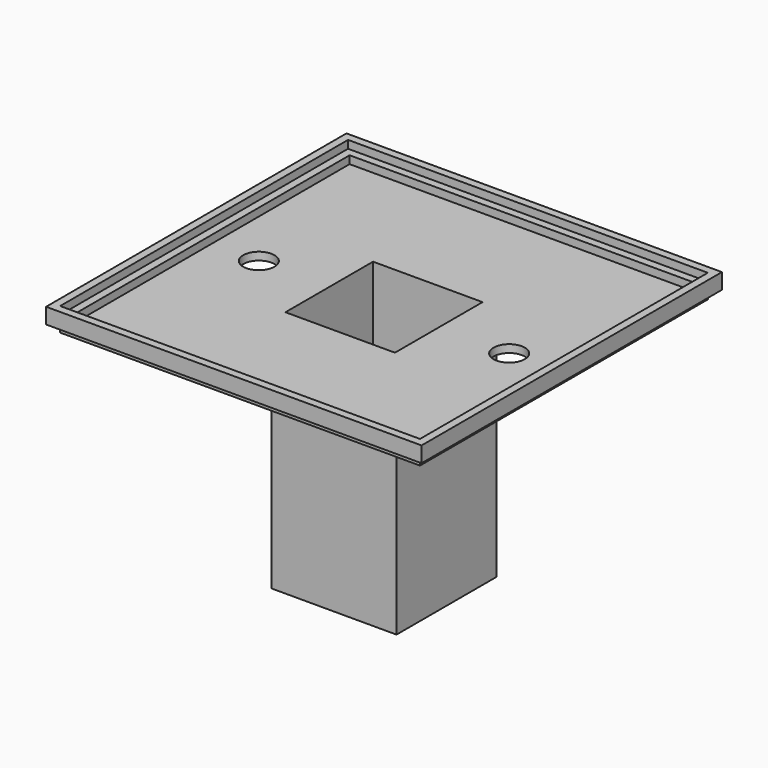
from build123d import *

# Parameters (mm, degrees)
F1_W  = 40
F1_H  = 40
F7_W  = 40
F7_H  = 40
F4_W  = 115
F4_H  = 115
F5_W  = 115
F5_H  = 115
F6_W  = 120
F6_H  = 120
F10_W = 120
F10_H = 120
F14_W = 120
F14_H = 120
F12_W = 120
F12_H = 120
F16_T = -2.5
F18_D = 10
F20_D = 10


with BuildPart() as f8:
    # F1 (on offset) → F8 section 0
    with BuildSketch(Plane.XY.offset(-75)):
        Rectangle(F1_W, F1_H)
    # F7 (on Top) → F8 section 1
    with BuildSketch(Plane.XY):
        Rectangle(F7_W, F7_H)
    loft()

    # F4 (on Top) → F9 section 0
    with BuildSketch(Plane.XY):
        Rectangle(F4_W, F4_H)
    # F5 (on offset) → F9 section 1
    with BuildSketch(Plane.XY.offset(2.5)):
        Rectangle(F5_W, F5_H)
    loft()

    # F6 (on offset) → F11 section 0
    with BuildSketch(Plane.XY.offset(5)):
        Rectangle(F6_W, F6_H)
    # F10 (on offset) → F11 section 1
    with BuildSketch(Plane.XY.offset(2.5)):
        Rectangle(F10_W, F10_H)
    loft()

    # F14 (on offset) → F15 section 0
    with BuildSketch(Plane.XY.offset(7.5)):
        Rectangle(F14_W, F14_H)
    # F12 (on face) → F15 section 1
    with BuildSketch(Plane.XY.offset(5)):
        Rectangle(F12_W, F12_H)
    loft()

    # F16
    f16_openings = [f8.faces().sort_by_distance(p)[0] for p in [
        (0, 0, 7.5),
    ]]
    offset(amount=F16_T, openings=f16_openings, kind=Kind.INTERSECTION)

    # F18 (through all)
    with Locations(Plane.XY.offset(2.5)):
        with Locations((-40, 0)):
            Hole(F18_D / 2)

    # F20 (through all)
    with Locations(Plane.XY.offset(2.5)):
        with Locations((40, 0)):
            Hole(F20_D / 2)


solid = f8.part
